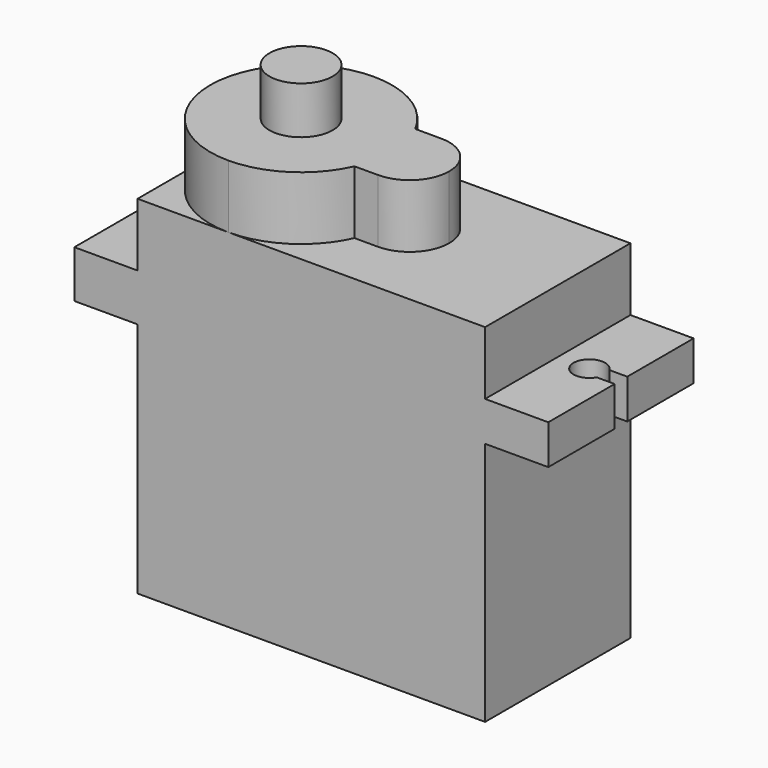
from build123d import *

# Parameters (mm, degrees)
F0_W      = 22
F0_H      = 22
F1_DEPTH  = 11.5
F3_DEPTH  = 4
F4_R      = 2
F5_DEPTH  = 3
F6_W      = 11.5
F6_H      = 2.5
F7_DEPTH  = 4
F8_W      = 11.5
F8_H      = 3
F9_DEPTH  = 4
F11_DEPTH = 25.4
F13_DEPTH = 25.4


with BuildPart() as f1:
    # F0 (on Front) → F1 (new body)
    with BuildSketch(Plane.XZ):
        with Locations((-11, 11)):
            Rectangle(F0_W, F0_H)
    extrude(amount=F1_DEPTH)

    # F2 (on face) → F3 (join)
    with BuildSketch(Plane.XY.offset(22)):
        with BuildLine():
            ThreePointArc((-10.8406771994, -7.6998017434), (-11.9992952148, -5.6490453843), (-10.9393399136, -3.5455977121))
            ThreePointArc((-10.9393399136, -3.5455977121), (-11.0408940925, -3.3153099489), (-11.1524285962, -3.0896869013))
            ThreePointArc((-11.1524285962, -3.0896869013), (-13.2695889812, -0.8327192312), (-16.25, 0))
            ThreePointArc((-16.25, 0), (-20.3158639918, -1.6841360082), (-22, -5.75))
            ThreePointArc((-22, -5.75), (-20.3158639918, -9.8158639918), (-16.25, -11.5))
            ThreePointArc((-16.25, -11.5), (-13.1187622002, -10.5726393024), (-10.9975372249, -8.0896869013))
            ThreePointArc((-10.9975372249, -8.0896869013), (-10.9155440273, -7.8961778759), (-10.8406771994, -7.6998017434))
        make_face()
        with BuildLine():
            ThreePointArc((-10.8406771994, -7.6998017434), (-10.5858095855, -6.7396701209), (-10.5, -5.75))
            ThreePointArc((-10.5, -5.75), (-10.6109045275, -4.6261217808), (-10.9393399136, -3.5455977121))
            ThreePointArc((-10.9393399136, -3.5455977121), (-11.9992952148, -5.6490453843), (-10.8406771994, -7.6998017434))
        make_face()
        with BuildLine():
            ThreePointArc((-10.9393399136, -3.5455977121), (-10.6109045275, -4.6261217808), (-10.5, -5.75))
            ThreePointArc((-10.5, -5.75), (-10.5858095855, -6.7396701209), (-10.8406771994, -7.6998017434))
            ThreePointArc((-10.8406771994, -7.6998017434), (-10.1981091944, -7.9902375782), (-9.5, -8.0896869013))
            ThreePointArc((-9.5, -8.0896869013), (-7.732233047, -7.3574538542), (-7, -5.5896869013))
            ThreePointArc((-7, -5.5896869013), (-7.732233047, -3.8219199483), (-9.5, -3.0896869013))
            ThreePointArc((-9.5, -3.0896869013), (-10.2549096062, -3.2063884545), (-10.9393399136, -3.5455977121))
        make_face()
        with BuildLine():
            ThreePointArc((-11.1524285962, -3.0896869013), (-11.0408940925, -3.3153099489), (-10.9393399136, -3.5455977121))
            ThreePointArc((-10.9393399136, -3.5455977121), (-10.2549096062, -3.2063884545), (-9.5, -3.0896869013))
            Line((-9.5, -3.0896869013), (-11.1524285962, -3.0896869013))
        make_face()
        with BuildLine():
            ThreePointArc((-9.5, -8.0896869013), (-10.1981091944, -7.9902375782), (-10.8406771994, -7.6998017434))
            ThreePointArc((-10.8406771994, -7.6998017434), (-10.9155440273, -7.8961778759), (-10.9975372249, -8.0896869013))
            Line((-10.9975372249, -8.0896869013), (-9.5, -8.0896869013))
        make_face()
    extrude(amount=F3_DEPTH)

    # F4 (on face) → F5 (join)
    with BuildSketch(Plane.XY.offset(26)):
        with Locations((-16.25, -5.75)):
            Circle(F4_R)
    extrude(amount=F5_DEPTH)

    # F6 (on face) → F7 (join)
    with BuildSketch(Plane.YZ):
        with Locations((-5.75, 16.75)):
            Rectangle(F6_W, F6_H)
    extrude(amount=F7_DEPTH)

    # F8 (on face) → F9 (join)
    with BuildSketch(Plane(origin=(-22, 0, 0), x_dir=(0, -1, 0), z_dir=(-1, 0, 0))):
        with Locations((5.75, 16.5)):
            Rectangle(F8_W, F8_H)
    extrude(amount=F9_DEPTH)

    # F10 (on face) → F11 (cut)
    with BuildSketch(Plane.XY.offset(18)):
        with BuildLine():
            ThreePointArc((-24.8660254038, -6.25), (-23.7411809549, -6.7159258263), (-23, -5.75))
            ThreePointArc((-23, -5.75), (-23.7411809549, -4.7840741737), (-24.8660254038, -5.25))
            ThreePointArc((-24.8660254038, -5.25), (-25, -5.75), (-24.8660254038, -6.25))
        make_face()
        with BuildLine():
            ThreePointArc((-24.8660254038, -6.25), (-25, -5.75), (-24.8660254038, -5.25))
            Line((-24.8660254038, -5.25), (-26, -5.25))
            Line((-26, -5.25), (-26, -6.25))
            Line((-26, -6.25), (-24.8660254038, -6.25))
        make_face()
    extrude(amount=-F11_DEPTH, mode=Mode.SUBTRACT)

    # F12 (on face) → F13 (cut)
    with BuildSketch(Plane.XY.offset(18)):
        with BuildLine():
            ThreePointArc((2.8660254038, -6.25), (2.9659258263, -6.0088190451), (3, -5.75))
            ThreePointArc((3, -5.75), (2.9659258263, -5.4911809549), (2.8660254038, -5.25))
            ThreePointArc((2.8660254038, -5.25), (1, -5.75), (2.8660254038, -6.25))
        make_face()
        with BuildLine():
            ThreePointArc((2.8660254038, -5.25), (2.9659258263, -5.4911809549), (3, -5.75))
            ThreePointArc((3, -5.75), (2.9659258263, -6.0088190451), (2.8660254038, -6.25))
            Line((2.8660254038, -6.25), (4, -6.25))
            Line((4, -6.25), (4, -5.25))
            Line((4, -5.25), (2.8660254038, -5.25))
        make_face()
    extrude(amount=-F13_DEPTH, mode=Mode.SUBTRACT)


solid = f1.part
